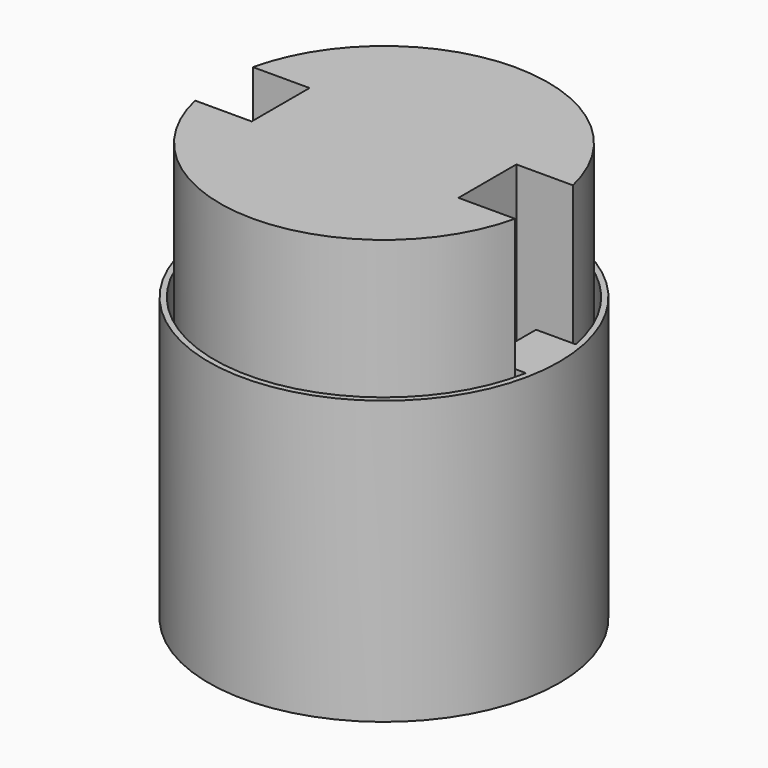
from build123d import *

# Parameters (mm, degrees)
F0_R     = 15.5
F1_DEPTH = 25
F2_W     = 5.2
F2_H     = 3.6
F3_DEPTH = 12
F4_W     = 5.2
F4_H     = 3.6
F5_DEPTH = 25


with BuildPart() as f1:
    # F0 (on Top) → F1 (new body)
    with BuildSketch(Plane.XY):
        Circle(F0_R)
        with BuildLine():
            ThreePointArc((14.7457621031, 2.75), (14.9363052919, 1.3808635802), (15, 0))
            ThreePointArc((15, 0), (14.9363052919, -1.3808635802), (14.7457621031, -2.75))
            ThreePointArc((14.7457621031, -2.75), (0, -15), (-14.7457621031, -2.75))
            ThreePointArc((-14.7457621031, -2.75), (-15, 0), (-14.7457621031, 2.75))
            ThreePointArc((-14.7457621031, 2.75), (0, 15), (14.7457621031, 2.75))
        make_face(mode=Mode.SUBTRACT)
        with BuildLine():
            Line((-11.2457621031, 2.75), (-14.7457621031, 2.75))
            ThreePointArc((-14.7457621031, 2.75), (-15, 0), (-14.7457621031, -2.75))
            Line((-14.7457621031, -2.75), (-11.2457621031, -2.75))
            Line((-11.2457621031, -2.75), (-11.2457621031, 0))
            Line((-11.2457621031, 0), (-11.2457621031, 2.75))
        make_face()
        with BuildLine():
            ThreePointArc((14.7457621031, -2.75), (14.9363052919, -1.3808635802), (15, 0))
            ThreePointArc((15, 0), (14.9363052919, 1.3808635802), (14.7457621031, 2.75))
            Line((14.7457621031, 2.75), (11.2457621031, 2.75))
            Line((11.2457621031, 2.75), (11.2457621031, 0))
            Line((11.2457621031, 0), (11.2457621031, -2.75))
            Line((11.2457621031, -2.75), (14.7457621031, -2.75))
        make_face()
    extrude(amount=F1_DEPTH)


with BuildPart() as f3:
    # F2 (on Top) → F3 (new body)
    with BuildSketch(Plane.XY):
        with BuildLine():
            Line((9.1424891727, 3.2), (14.1424891727, 3.2))
            ThreePointArc((14.1424891727, 3.2), (0, 14.5), (-14.1424891727, 3.2))
            Line((-14.1424891727, 3.2), (-9.1424891727, 3.2))
            Line((-9.1424891727, 3.2), (-9.1424891727, 0))
            Line((-9.1424891727, 0), (-9.1424891727, -3.2))
            Line((-9.1424891727, -3.2), (-14.1424891727, -3.2))
            ThreePointArc((-14.1424891727, -3.2), (0, -14.5), (14.1424891727, -3.2))
            Line((14.1424891727, -3.2), (9.1424891727, -3.2))
            Line((9.1424891727, -3.2), (9.1424891727, 0))
            Line((9.1424891727, 0), (9.1424891727, 3.2))
        make_face()
        Rectangle(F2_W, F2_H, mode=Mode.SUBTRACT)
    extrude(amount=F3_DEPTH)

    # F4 (on face) → F5 (join)
    with BuildSketch(Plane.XY.offset(12)):
        with BuildLine():
            Line((9.1424891727, 3.2), (14.1424891727, 3.2))
            ThreePointArc((14.1424891727, 3.2), (0, 14.5), (-14.1424891727, 3.2))
            Line((-14.1424891727, 3.2), (-9.1424891727, 3.2))
            Line((-9.1424891727, 3.2), (-9.1424891727, -3.2))
            Line((-9.1424891727, -3.2), (-14.1424891727, -3.2))
            ThreePointArc((-14.1424891727, -3.2), (0, -14.5), (14.1424891727, -3.2))
            Line((14.1424891727, -3.2), (9.1424891727, -3.2))
            Line((9.1424891727, -3.2), (9.1424891727, 3.2))
        make_face()
        Rectangle(F4_W, F4_H, mode=Mode.SUBTRACT)
        Rectangle(F4_W, F4_H)
    extrude(amount=F5_DEPTH)


solid = Compound([f1.part, f3.part])
